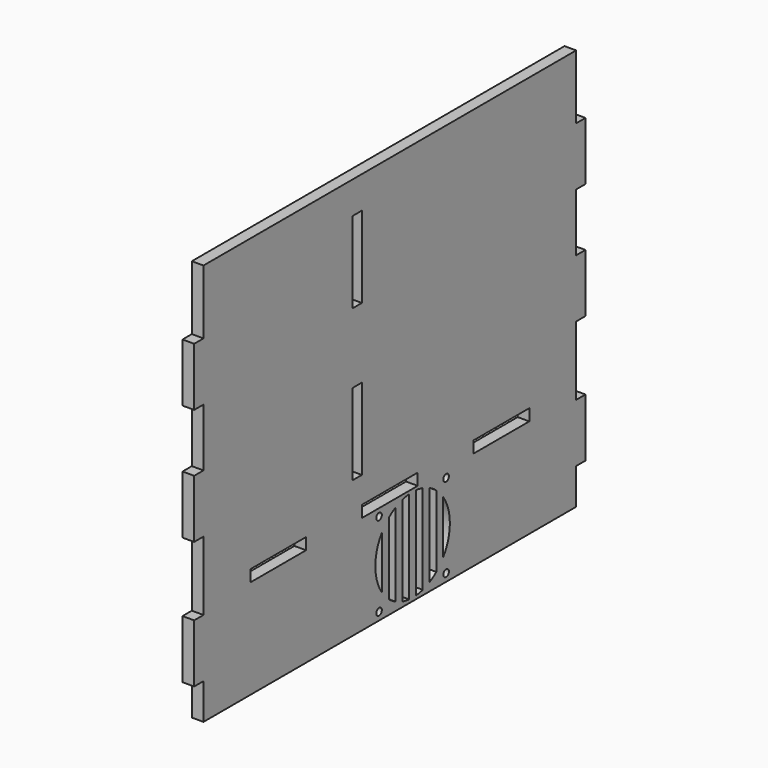
from build123d import *

# Parameters (mm, degrees)
SKETCH_R   = 3
SKETCH_W   = 59.8
SKETCH_H   = 10
SKETCH_W_2 = 10
SKETCH_H_2 = 69.8
PAD_DEPTH  = 10


with BuildPart() as part:
    # Sketch → Pad (new body)
    with BuildSketch(Plane.YZ):
        Polygon((0, 0), (0, 30.83), (-10, 30.83), (-10, 80.83), (0, 80.83), (0, 140.1), (-10, 140.1), (-10, 190.1), (0, 190.1), (0, 239.9), (-10, 239.9), (-10, 289.9), (0, 289.9), (0, 345), (400, 345), (400, 289.9), (410, 289.9), (410, 239.9), (400, 239.9), (400, 190.1), (410, 190.1), (410, 140.1), (400, 140.1), (400, 80.83), (410, 80.83), (410, 30.83), (400, 30.83), (400, 0), align=None)
        with Locations((188.43, 6.65)):
            Circle(SKETCH_R, mode=Mode.SUBTRACT)
        with Locations((260.43, 6.65)):
            Circle(SKETCH_R, mode=Mode.SUBTRACT)
        with Locations((260.43, 78.65)):
            Circle(SKETCH_R, mode=Mode.SUBTRACT)
        with Locations((188.43, 78.65)):
            Circle(SKETCH_R, mode=Mode.SUBTRACT)
        with Locations((80.2, 90)):
            Rectangle(SKETCH_W, SKETCH_H, mode=Mode.SUBTRACT)
        with Locations((200, 90)):
            Rectangle(SKETCH_W, SKETCH_H, mode=Mode.SUBTRACT)
        with Locations((319.8, 90)):
            Rectangle(SKETCH_W, SKETCH_H, mode=Mode.SUBTRACT)
        with Locations((165, 282.5)):
            Rectangle(SKETCH_W_2, SKETCH_H_2, mode=Mode.SUBTRACT)
        with Locations((165, 152.5)):
            Rectangle(SKETCH_W_2, SKETCH_H_2, mode=Mode.SUBTRACT)
        with BuildLine():
            ThreePointArc((191.702727, 65.648383), (184.43, 42.65), (191.702727, 19.651617))
            Line((191.702727, 19.651617), (191.702727, 65.648383))
        make_face(mode=Mode.SUBTRACT)
        with BuildLine():
            Line((198.975455, 11.794431), (198.975455, 73.505569))
            ThreePointArc((206.248182, 78.278942), (202.481667, 76.090554), (198.975455, 73.505569))
            Line((206.248182, 7.021058), (206.248182, 78.278942))
            ThreePointArc((198.975455, 11.794431), (202.481667, 9.209446), (206.248182, 7.021058))
        make_face(mode=Mode.SUBTRACT)
        with BuildLine():
            Line((213.520909, 4.166345), (213.520909, 81.133655))
            ThreePointArc((220.793636, 82.484368), (217.125983, 81.977488), (213.520909, 81.133655))
            Line((220.793636, 2.815632), (220.793636, 82.484368))
            ThreePointArc((213.520909, 4.166345), (217.125983, 3.322512), (220.793636, 2.815632))
        make_face(mode=Mode.SUBTRACT)
        with BuildLine():
            Line((228.066364, 2.815632), (228.066364, 82.484368))
            ThreePointArc((235.339091, 81.133655), (231.734017, 81.977488), (228.066364, 82.484368))
            Line((235.339091, 4.166345), (235.339091, 81.133655))
            ThreePointArc((228.066364, 2.815632), (231.734017, 3.322512), (235.339091, 4.166345))
        make_face(mode=Mode.SUBTRACT)
        with BuildLine():
            Line((242.611818, 7.021058), (242.611818, 78.278942))
            ThreePointArc((249.884545, 73.505569), (246.378333, 76.090554), (242.611818, 78.278942))
            Line((249.884545, 73.505569), (249.884545, 11.794431))
            ThreePointArc((242.611818, 7.021058), (246.378333, 9.209446), (249.884545, 11.794431))
        make_face(mode=Mode.SUBTRACT)
        with BuildLine():
            Line((257.157273, 19.651617), (257.157273, 65.648383))
            ThreePointArc((257.157273, 19.651617), (264.43, 42.65), (257.157273, 65.648383))
        make_face(mode=Mode.SUBTRACT)
    extrude(amount=PAD_DEPTH)


solid = part.part
